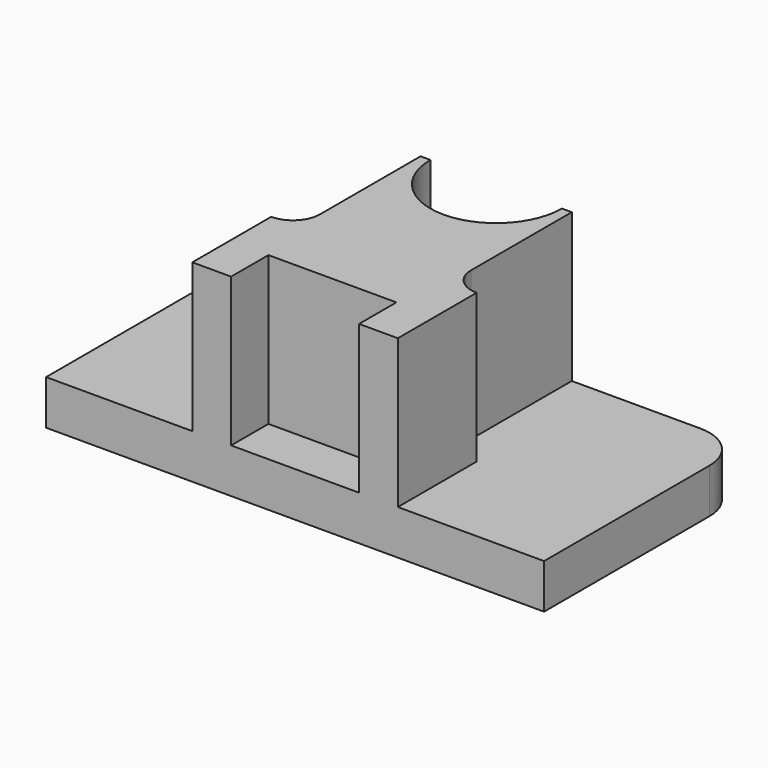
from build123d import *

# Parameters (mm, degrees)
F0_W     = 85.1215273142
F0_H     = 42.9548472166
F1_DEPTH = 7.62
F2_R     = 7.62
F4_DEPTH = 25.4
F5_DEPTH = 25.4


with BuildPart() as f1:
    # F0 (on Top) → F1 (new body)
    with BuildSketch(Plane.XY):
        Rectangle(F0_W, F0_H)
    extrude(amount=F1_DEPTH)

    # F2
    f2_edges = [f1.edges().sort_by_distance(p)[0] for p in [
        (-42.560764, 21.477424, 3.81),
        (42.560764, 21.477424, 3.81),
    ]]
    fillet(f2_edges, radius=F2_R)

    # F3 (on face) → F4 (join)
    with BuildSketch(Plane.XY.offset(7.62)):
        with BuildLine():
            Line((12.9238776863, 21.4774236083), (11.2444977121, 21.4774236083))
            ThreePointArc((11.2444977121, 21.4774236083), (0, 10.2329258962), (-11.2444977121, 21.4774236083))
            Line((-11.2444977121, 21.4774236083), (-12.9238776863, 21.4774236083))
            Line((-12.9238776863, 21.4774236083), (-12.9238776863, 0))
            ThreePointArc((-12.9238776863, 0), (-14.282709623, -3.2805104906), (-17.5632201135, -4.6393424273))
            Line((-17.5632201135, -4.6393424273), (-17.5632201135, -21.4774236083))
            Line((-17.5632201135, -21.4774236083), (-10.9355887398, -21.4774236083))
            Line((-10.9355887398, -21.4774236083), (-10.9355887398, -13.5037954897))
            Line((-10.9355887398, -13.5037954897), (-3.6451956257, -13.5037954897))
            Line((-3.6451956257, -13.5037954897), (3.6451956257, -13.5037954897))
            Line((3.6451956257, -13.5037954897), (10.9355887398, -13.5037954897))
            Line((10.9355887398, -13.5037954897), (10.9355887398, -21.4774236083))
            Line((10.9355887398, -21.4774236083), (17.5632201135, -21.4774236083))
            Line((17.5632201135, -21.4774236083), (17.5632201135, -4.6393424273))
            ThreePointArc((17.5632201135, -4.6393424273), (14.282709623, -3.2805104906), (12.9238776863, 0))
            Line((12.9238776863, 0), (12.9238776863, 21.4774236083))
        make_face()
    extrude(amount=F4_DEPTH)

    # F5 (cut): a face of the model
    f5_faces = [f1.faces().sort_by_distance(p)[0] for p in [
        (0, 16.7051105591, 7.62),
    ]]
    extrude(f5_faces, amount=-F5_DEPTH, mode=Mode.SUBTRACT)


solid = f1.part
